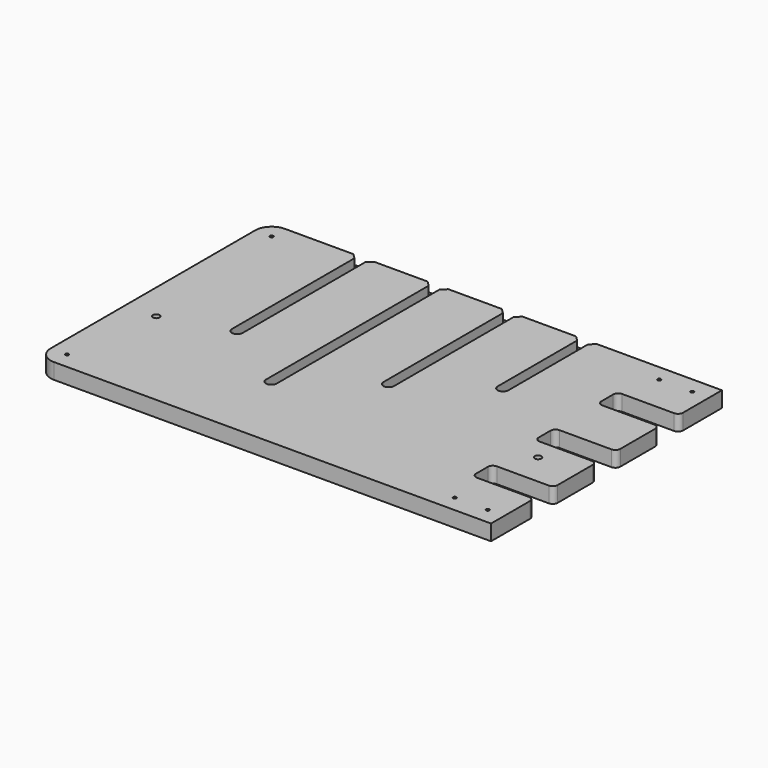
from build123d import *

# Parameters (mm, degrees)
SKETCH011_W     = 550
SKETCH011_H     = 350
PAD012_DEPTH    = 19
SKETCH012_R     = 4
POCKET007_DEPTH = 11
FILLET_R        = 20
SKETCH013_R     = 2
POCKET008_DEPTH = 19.001
SKETCH014_W     = 75
SKETCH014_H     = 30
POCKET009_DEPTH = 19.001
FILLET004_R     = 6
SKETCH028_R     = 2
POCKET018_DEPTH = 19.001
CHAMFER008_SIZE = 6


with BuildPart() as part:
    # Sketch011 → Pad012 (new body)
    with BuildSketch(Plane.XY):
        with Locations((0, 41.2)):
            Rectangle(SKETCH011_W, SKETCH011_H)
    extrude(amount=-PAD012_DEPTH)

    # Sketch012 (on Face5 of Pad012) → Pocket007 (cut)
    with BuildSketch(Plane.XY):
        with Locations((-238, 0)):
            Circle(SKETCH012_R)
        with Locations((225, 0)):
            Circle(SKETCH012_R)
        with BuildLine():
            ThreePointArc((-165.823184, 24.404903), (-159.323184, 17.904903), (-152.823184, 24.404903))
            Line((-152.823184, 24.404903), (-152.823184, 216.2))
            ThreePointArc((-152.823184, 216.2), (-159.323184, 222.7), (-165.823184, 216.2))
            Line((-165.823184, 24.404903), (-165.823184, 216.2))
        make_face()
        with BuildLine():
            ThreePointArc((-75.823184, -36.417713), (-69.323184, -42.917713), (-62.823184, -36.417713))
            Line((-62.823184, -36.417713), (-62.823184, 216.2))
            ThreePointArc((-62.823184, 216.2), (-69.323184, 222.7), (-75.823184, 216.2))
            Line((-75.823184, -36.417713), (-75.823184, 216.2))
        make_face()
        with BuildLine():
            ThreePointArc((14.176816, 28.977719), (20.676816, 22.477719), (27.176816, 28.977719))
            Line((27.176816, 28.977719), (27.176816, 216.2))
            ThreePointArc((27.176816, 216.2), (20.676816, 222.7), (14.176816, 216.2))
            Line((14.176816, 28.977719), (14.176816, 216.2))
        make_face()
        with BuildLine():
            ThreePointArc((104.176816, 89.800335), (110.676816, 83.300335), (117.176816, 89.800335))
            Line((117.176816, 89.800335), (117.176816, 216.2))
            ThreePointArc((117.176816, 216.2), (110.676816, 222.7), (104.176816, 216.2))
            Line((104.176816, 89.800335), (104.176816, 216.2))
        make_face()
    extrude(amount=-POCKET007_DEPTH, mode=Mode.SUBTRACT)

    # Fillet
    fillet_edges = [part.edges().sort_by_distance(p)[0] for p in [
        (-275, -133.8, -9.5),
        (-275, 216.2, -9.5),
    ]]
    fillet(fillet_edges, radius=FILLET_R)

    # Sketch013 (on Face2 of Fillet) → Pocket008 (cut, through all)
    with BuildSketch(Plane.XY):
        with Locations((-255, 196.2)):
            Circle(SKETCH013_R)
        with Locations((-255, -113.8)):
            Circle(SKETCH013_R)
        with Locations((215, -113.8)):
            Circle(SKETCH013_R)
        with Locations((215, 196.2)):
            Circle(SKETCH013_R)
    extrude(amount=-POCKET008_DEPTH, mode=Mode.SUBTRACT)

    # Sketch014 (on Face2 of Pocket008) → Pocket009 (cut, through all)
    with BuildSketch(Plane.XY):
        with Locations((237.5, 136.2)):
            Rectangle(SKETCH014_W, SKETCH014_H)
        with Locations((237.5, -53.8)):
            Rectangle(SKETCH014_W, SKETCH014_H)
        with Locations((237.5, 41.2)):
            Rectangle(SKETCH014_W, SKETCH014_H)
    extrude(amount=-POCKET009_DEPTH, mode=Mode.SUBTRACT)

    # Fillet004
    fillet004_edges = [part.edges().sort_by_distance(p)[0] for p in [
        (275, 151.2, -9.5),
        (200, 151.2, -9.5),
        (275, 121.2, -9.5),
        (275, 56.2, -9.5),
        (200, 56.2, -9.5),
        (275, 26.2, -9.5),
        (200, -38.8, -9.5),
        (275, -38.8, -9.5),
        (275, -68.8, -9.5),
        (200, -68.8, -9.5),
        (200, 26.2, -9.5),
        (200, 121.2, -9.5),
    ]]
    fillet(fillet004_edges, radius=FILLET004_R)

    # Sketch028 (on Face50 of Fillet004) → Pocket018 (cut, through all)
    with BuildSketch(Plane(origin=(0, 0, -19), x_dir=(1, 0, 0), z_dir=(0, 0, -1))):
        with Locations((255, -196.2)):
            Circle(SKETCH028_R)
        with Locations((255, 113.8)):
            Circle(SKETCH028_R)
    extrude(amount=-POCKET018_DEPTH, mode=Mode.SUBTRACT)

    # Chamfer008
    chamfer008_edges = [part.edges().sort_by_distance(p)[0] for p in [
        (-165.823184, 216.2, -5.5),
        (-152.823184, 216.2, -5.5),
        (-75.823184, 216.2, -5.5),
        (-62.823184, 216.2, -5.5),
        (14.176816, 216.2, -5.5),
        (27.176816, 216.2, -5.5),
        (104.176816, 216.2, -5.5),
        (117.176816, 216.2, -5.5),
    ]]
    chamfer(chamfer008_edges, length=CHAMFER008_SIZE)


with BuildPart() as part_1:
    # Body008 placement: moved
    add(part.part.moved(Location((0, 0, -9))))


solid = part_1.part
